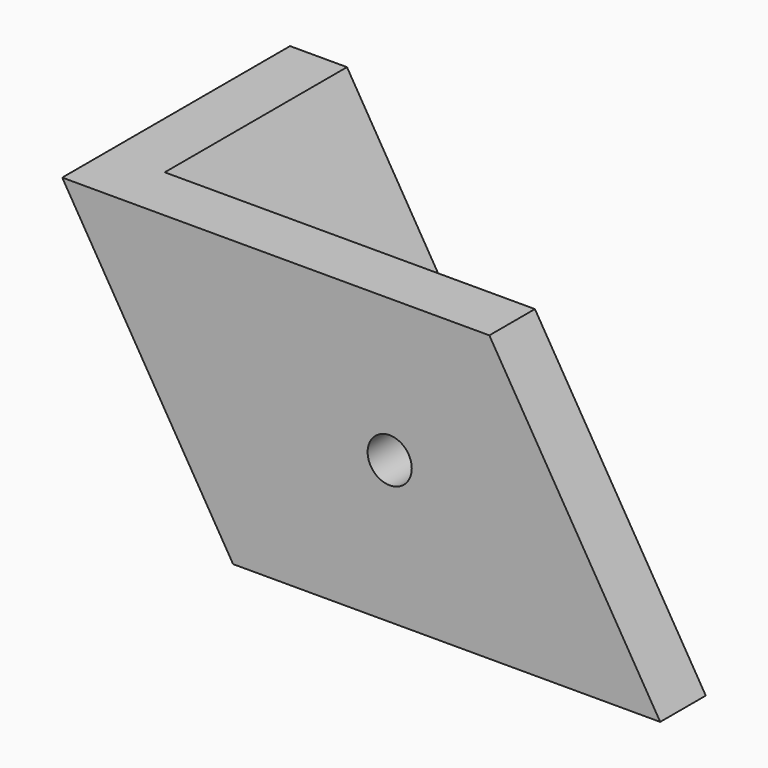
from build123d import *

# Parameters (mm, degrees)
SKETCH171_R          = 1.55
POCKET093_DEPTH      = 10.0010001
POCKET093_DEPTH_BACK = 10.0010001
SKETCH183_R          = 1.6
POCKET099_DEPTH      = 5


with BuildPart() as part:
    # Sketch169 → AdditiveLoft006 section 0
    with BuildSketch(Plane.XY):
        Polygon((-15, -10), (15, -10), (15, -6), (-11, -6), (-11, 10), (-15, 10), align=None)
    # Sketch170 → AdditiveLoft006 section 1
    with BuildSketch(Plane(origin=(-12, 0, 20), x_dir=(1, 0, 0), z_dir=(0, 0, 1))):
        Polygon((-15, -10), (15, -10), (15, -6), (-11, -6), (-11, 10), (-15, 10), align=None)
    loft()

    # Sketch171 → Pocket093 (cut, two sides)
    with BuildSketch(Plane.XZ) as pocket093_sk:
        with Locations((-4, 10)):
            Circle(SKETCH171_R)
    extrude(amount=-POCKET093_DEPTH, mode=Mode.SUBTRACT)
    extrude(pocket093_sk.sketch, amount=POCKET093_DEPTH_BACK, mode=Mode.SUBTRACT)

    # Sketch183 (on Face5 of Pocket093) → Pocket099 (cut)
    with BuildSketch(Plane(origin=(-8.0882352941, 0, -4.8529411765), x_dir=(0, 1, 0), z_dir=(0.8574929257, 0, 0.5144957554))):
        with Locations((0, 17.3213533097)):
            Circle(SKETCH183_R)
    extrude(amount=-POCKET099_DEPTH, mode=Mode.SUBTRACT)


solid = part.part
